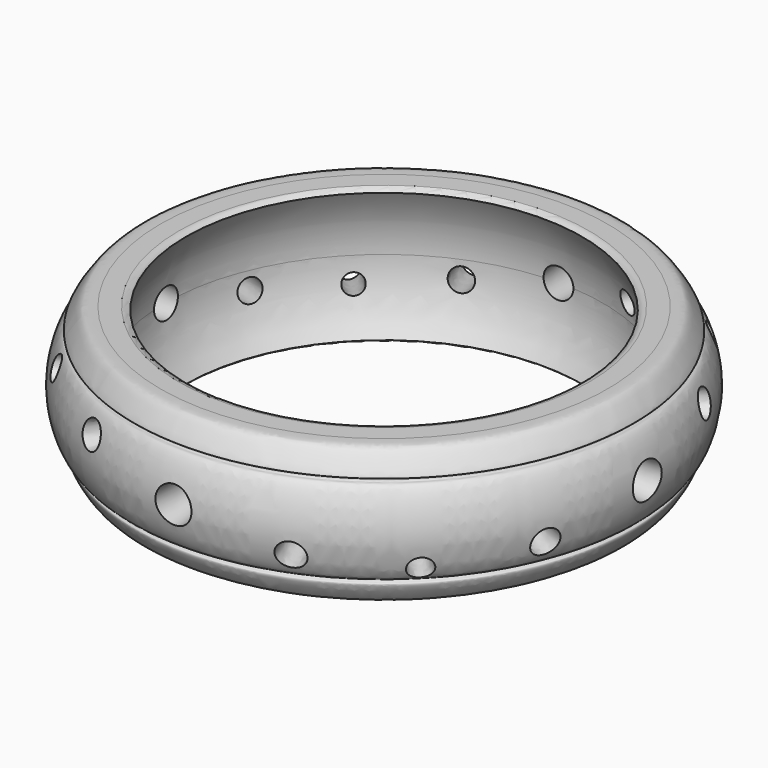
from build123d import *

# Parameters (mm, degrees)
F6_R  = 0.925
F10_R = 0.925
F13_R = 0.925
F16_R = 0.925
F19_R = 0.60125
F22_R = 0.60125
F25_R = 0.60125
F28_R = 0.60125
F31_R = 0.69375
F34_R = 0.69375
F37_R = 0.69375
F40_R = 0.69375
F43_R = 0.69375
F46_R = 0.69375
F49_R = 0.69375
F52_R = 0.69375


with BuildPart() as f7:
    # F4 (on Front) → F7 (revolve)
    with BuildSketch(Plane.XZ):
        with BuildLine():
            ThreePointArc((-8.7489272964, -2.8633538061), (-9.4194148741, -1.5008936534), (-9.65, 0))
            ThreePointArc((-9.65, 0), (-9.4194148741, 1.5008936534), (-8.7489272964, 2.8633538061))
            ThreePointArc((-8.7489272964, 2.8633538061), (-8.8846844267, 2.9642399775), (-9.05, 3))
            Line((-9.05, 3), (-9.8662162162, 3))
            add(Edge.make_bspline(
                [(-9.8662162162, 3), (-10.2782648095, 3), (-10.4722746562, 3.0528611891), (-11.0623713925, 2.1485418249), (-11.0314349709, 2.01854953), (-10.8629352617, 2.0626780413), (-10.8876779179, 1.8264078171), (-11.1687197137, 1.9788106886), (-12.0088539405, -9.6098e-06), (-11.2085116458, -1.9940815906), (-10.868172409, -1.8123269121), (-10.8507432895, -2.0464011819), (-11.1241593612, -2.0016135908), (-10.5624784021, -3.057673418), (-10.3354757643, -3), (-9.8662162162, -3)],
                knots=[0, 0, 0, 0, 0.0925574349, 0.2001970577, 0.2315724188, 0.2700664215, 0.3120698115, 0.3545300043, 0.5121145416, 0.6691951916, 0.7167284795, 0.7580313054, 0.7968478814, 0.9011025431, 1, 1, 1, 1], degree=3))
            Line((-9.8662162162, -3), (-9.05, -3))
            ThreePointArc((-9.05, -3), (-8.8846844267, -2.9642399775), (-8.7489272964, -2.8633538061))
        make_face()
    revolve(axis=Axis((0, 0, -5.526015535), (0, 0, -1)))

    # F6 (on line) → F8 section 0
    with BuildSketch(Plane.YZ.offset(-13.5), mode=Mode.PRIVATE) as f8_s0:
        Circle(F6_R)
    loft([f8_s0.sketch, Vertex(0, 0, 0)], mode=Mode.SUBTRACT)

    # F10 (on line) → F11 section 0
    with BuildSketch(Plane.XZ.offset(-13.5), mode=Mode.PRIVATE) as f11_s0:
        Circle(F10_R)
    loft([f11_s0.sketch, Vertex(0, 0, 0)], mode=Mode.SUBTRACT)

    # F13 (on line) → F14 section 0
    with BuildSketch(Plane.YZ.offset(13.5), mode=Mode.PRIVATE) as f14_s0:
        Circle(F13_R)
    loft([f14_s0.sketch, Vertex(0, 0, 0)], mode=Mode.SUBTRACT)

    # F16 (on line) → F17 section 0
    with BuildSketch(Plane(origin=(0, -13.5, 0), x_dir=(-1, 0, 0), z_dir=(0, 1, 0)), mode=Mode.PRIVATE) as f17_s0:
        Circle(F16_R)
    loft([f17_s0.sketch, Vertex(0, 0, 0)], mode=Mode.SUBTRACT)

    # F19 (on face) → F20 section 0
    with BuildSketch(Plane(origin=(9.545941546, -9.545941546, 0), x_dir=(0.7071067812, 0.7071067812, 0), z_dir=(0.7071067812, -0.7071067812, 0)), mode=Mode.PRIVATE) as f20_s0:
        with Locations((0, -1.5)):
            Circle(F19_R)
    loft([f20_s0.sketch, Vertex(0, 0, 0)], mode=Mode.SUBTRACT)

    # F22 (on face) → F23 section 0
    with BuildSketch(Plane(origin=(-9.545941546, -9.545941546, 0), x_dir=(-0.7071067812, 0.7071067812, 0), z_dir=(0.7071067812, 0.7071067812, 0)), mode=Mode.PRIVATE) as f23_s0:
        with Locations((0, 1.5)):
            Circle(F22_R)
    loft([f23_s0.sketch, Vertex(0, 0, 0)], mode=Mode.SUBTRACT)

    # F25 (on face) → F26 section 0
    with BuildSketch(Plane(origin=(-9.545941546, 9.545941546, 0), x_dir=(0.7071067812, 0.7071067812, 0), z_dir=(0.7071067812, -0.7071067812, 0)), mode=Mode.PRIVATE) as f26_s0:
        with Locations((0, -1.5)):
            Circle(F25_R)
    loft([f26_s0.sketch, Vertex(0, 0, 0)], mode=Mode.SUBTRACT)

    # F28 (on face) → F29 section 0
    with BuildSketch(Plane(origin=(9.545941546, 9.545941546, 0), x_dir=(-0.7071067812, 0.7071067812, 0), z_dir=(0.7071067812, 0.7071067812, 0)), mode=Mode.PRIVATE) as f29_s0:
        with Locations((0, 1.5)):
            Circle(F28_R)
    loft([f29_s0.sketch, Vertex(0, 0, 0)], mode=Mode.SUBTRACT)

    # F31 (on line) → F32 section 0
    with BuildSketch(Plane(origin=(5.1662263369, -12.4723736889, 0), x_dir=(-0.9238795325, -0.3826834324, 0), z_dir=(-0.3826834324, 0.9238795325, 0)), mode=Mode.PRIVATE) as f32_s0:
        with Locations((0, -1.0605)):
            Circle(F31_R)
    loft([f32_s0.sketch, Vertex(0, 0, 0)], mode=Mode.SUBTRACT)

    # F34 (on line) → F35 section 0
    with BuildSketch(Plane(origin=(-5.1662263369, -12.4723736889, 0), x_dir=(-0.9238795325, 0.3826834324, 0), z_dir=(0.3826834324, 0.9238795325, 0)), mode=Mode.PRIVATE) as f35_s0:
        with Locations((0, 1.0605)):
            Circle(F34_R)
    loft([f35_s0.sketch, Vertex(0, 0, 0)], mode=Mode.SUBTRACT)

    # F37 (on line) → F38 section 0
    with BuildSketch(Plane(origin=(-12.4723736889, -5.1662263369, 0), x_dir=(-0.3826834324, 0.9238795325, 0), z_dir=(0.9238795325, 0.3826834324, 0)), mode=Mode.PRIVATE) as f38_s0:
        with Locations((0, 1.0605)):
            Circle(F37_R)
    loft([f38_s0.sketch, Vertex(0, 0, 0)], mode=Mode.SUBTRACT)

    # F40 (on line) → F41 section 0
    with BuildSketch(Plane(origin=(-12.4723736889, 5.1662263369, 0), x_dir=(0.3826834324, 0.9238795325, 0), z_dir=(0.9238795325, -0.3826834324, 0)), mode=Mode.PRIVATE) as f41_s0:
        with Locations((0, -1.0605)):
            Circle(F40_R)
    loft([f41_s0.sketch, Vertex(0, 0, 0)], mode=Mode.SUBTRACT)

    # F43 (on line) → F44 section 0
    with BuildSketch(Plane(origin=(-5.1662263369, 12.4723736889, 0), x_dir=(0.9238795325, 0.3826834324, 0), z_dir=(0.3826834324, -0.9238795325, 0)), mode=Mode.PRIVATE) as f44_s0:
        with Locations((0, -1.0605)):
            Circle(F43_R)
    loft([Vertex(0, 0, 0), f44_s0.sketch], mode=Mode.SUBTRACT)

    # F46 (on line) → F47 section 0
    with BuildSketch(Plane(origin=(5.1662263369, 12.4723736889, 0), x_dir=(0.9238795325, -0.3826834324, 0), z_dir=(-0.3826834324, -0.9238795325, 0)), mode=Mode.PRIVATE) as f47_s0:
        with Locations((0, 1.0605)):
            Circle(F46_R)
    loft([f47_s0.sketch, Vertex(0, 0, 0)], mode=Mode.SUBTRACT)

    # F49 (on line) → F50 section 0
    with BuildSketch(Plane(origin=(12.4723736889, 5.1662263369, 0), x_dir=(-0.3826834324, 0.9238795325, 0), z_dir=(0.9238795325, 0.3826834324, 0)), mode=Mode.PRIVATE) as f50_s0:
        with Locations((0, 1.0605)):
            Circle(F49_R)
    loft([f50_s0.sketch, Vertex(0, 0, 0)], mode=Mode.SUBTRACT)

    # F52 (on line) → F53 section 0
    with BuildSketch(Plane(origin=(12.4723736889, -5.1662263369, 0), x_dir=(0.3826834324, 0.9238795325, 0), z_dir=(0.9238795325, -0.3826834324, 0)), mode=Mode.PRIVATE) as f53_s0:
        with Locations((0, -1.0605)):
            Circle(F52_R)
    loft([f53_s0.sketch, Vertex(0, 0, 0)], mode=Mode.SUBTRACT)


solid = f7.part
